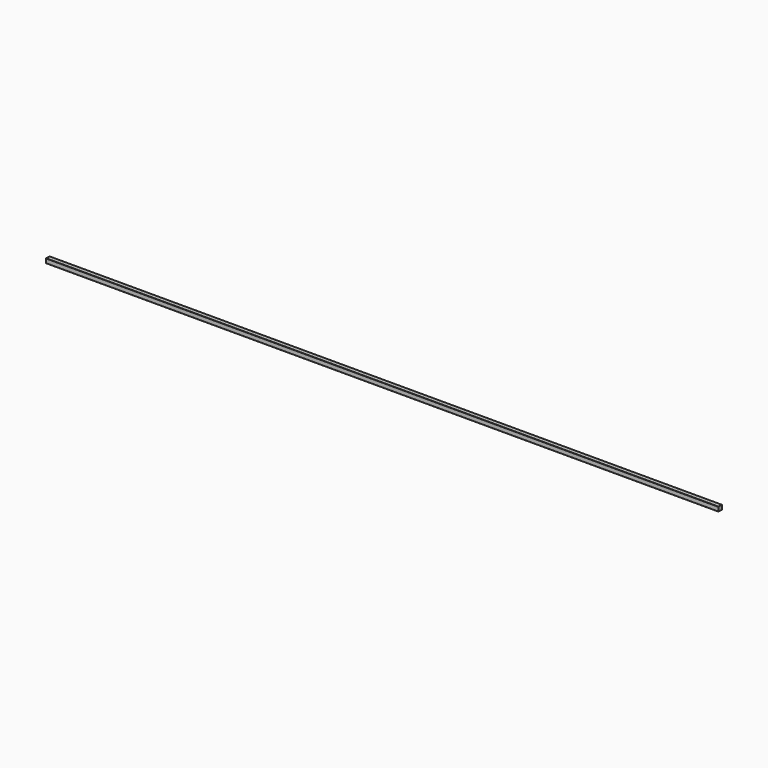
from build123d import *

# Parameters (mm, degrees)
F1_DEPTH = 6654.8


with BuildPart() as f1:
    # F0 (on Right) → F1 (new body, symmetric)
    with BuildSketch(Plane.YZ):
        with BuildLine():
            Line((38.1, 44.45), (-38.1, 44.45))
            ThreePointArc((-38.1, 44.45), (-42.590128, 42.590128), (-44.45, 38.1))
            Line((-44.45, 38.1), (-44.45, -38.1))
            ThreePointArc((-44.45, -38.1), (-42.590128, -42.590128), (-38.1, -44.45))
            Line((-38.1, -44.45), (38.1, -44.45))
            ThreePointArc((38.1, -44.45), (42.590128, -42.590128), (44.45, -38.1))
            Line((44.45, -38.1), (44.45, 38.1))
            ThreePointArc((44.45, 38.1), (42.590128, 42.590128), (38.1, 44.45))
        make_face()
    extrude(amount=F1_DEPTH, both=True)


solid = f1.part
